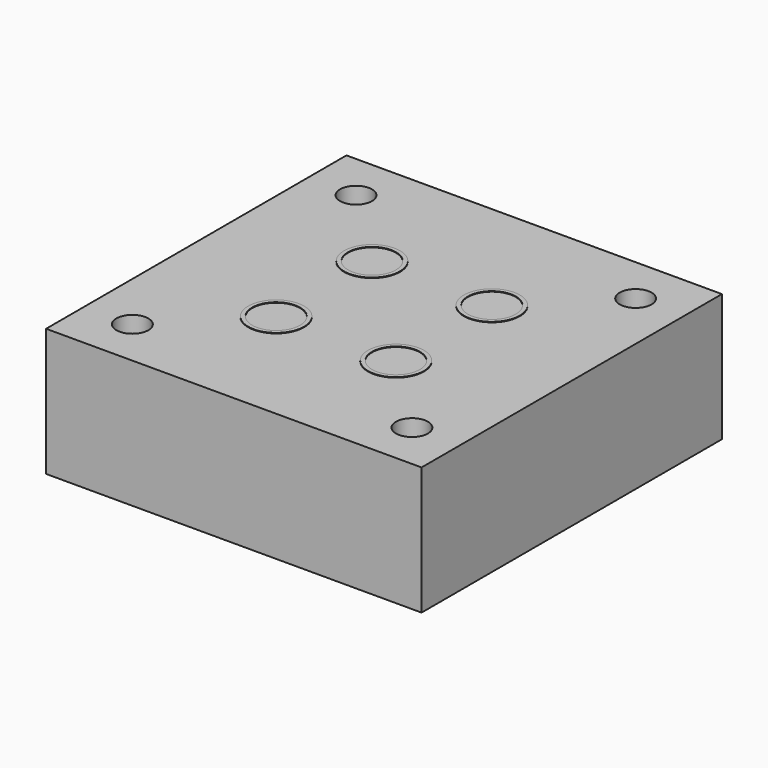
from build123d import *

# Parameters (mm, degrees)
F0_W     = 74.6125
F0_H     = 74.6125
F1_DEPTH = 25.4
F2_R     = 3.175
F3_DEPTH = 25.4
F4_R     = 5.55625
F5_DEPTH = 0.1
F6_R     = 4.7625
F7_DEPTH = 0.1


with BuildPart() as f1:
    # F0 (on Top) → F1 (new body)
    with BuildSketch(Plane.XY):
        with Locations((-221.559285, 37.30625)):
            Rectangle(F0_W, F0_H)
    extrude(amount=F1_DEPTH)

    # F2 (on Top) → F3 (cut)
    with BuildSketch(Plane.XY):
        with Locations((-249.340535, 65.0875)):
            Circle(F2_R)
        with Locations((-193.778035, 65.0875)):
            Circle(F2_R)
        with Locations((-249.340535, 9.525)):
            Circle(F2_R)
        with Locations((-193.778035, 9.525)):
            Circle(F2_R)
    extrude(amount=F3_DEPTH, mode=Mode.SUBTRACT)

    # F4 (on face) → F5 (join)
    with BuildSketch(Plane.XY.offset(25.4)):
        with Locations((-233.465535, 49.2125)):
            Circle(F4_R)
        with Locations((-209.653035, 49.2125)):
            Circle(F4_R)
        with Locations((-233.465535, 25.4)):
            Circle(F4_R)
        with Locations((-209.653035, 25.4)):
            Circle(F4_R)
    extrude(amount=F5_DEPTH)

    # F6 (on face) → F7 (cut)
    with BuildSketch(Plane.XY.offset(25.5)):
        with Locations((-233.465535, 25.4)):
            Circle(F6_R)
        with Locations((-233.465535, 49.2125)):
            Circle(F6_R)
        with Locations((-209.653035, 25.4)):
            Circle(F6_R)
        with Locations((-209.653035, 49.2125)):
            Circle(F6_R)
    extrude(amount=-F7_DEPTH, mode=Mode.SUBTRACT)


solid = f1.part
